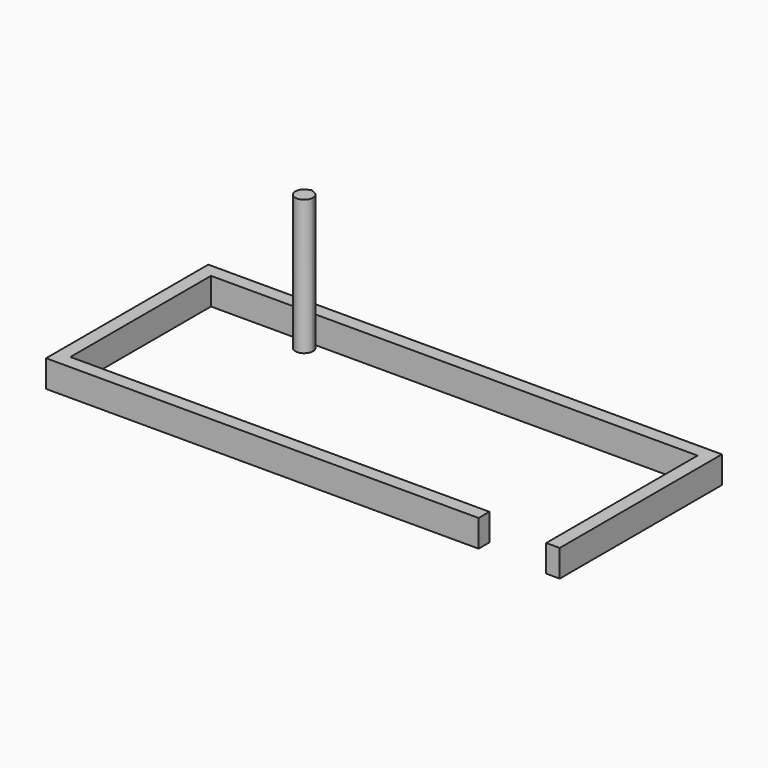
from build123d import *

# Parameters (mm, degrees)
F1_DEPTH = 200
F2_DEPTH = 1000


with BuildPart() as f1:
    # F0 (on Top) → F1 (new body)
    with BuildSketch(Plane.XY):
        Polygon((-1947.234035, -703.577162), (-1947.234035, 596.422838), (-1206.385482, 596.422838), (-1196.203493, 596.422838), (1652.765965, 596.422838), (1652.765965, -803.577162), (1752.765965, -803.577162), (1752.765965, 696.422838), (-2047.234035, 696.422838), (-2047.234035, -803.577162), (1152.765965, -803.577162), (1152.765965, -703.577162), align=None)
    extrude(amount=F1_DEPTH)

    # F0 (on Top) → F2 (join)
    with BuildSketch(Plane.XY):
        with BuildLine():
            ThreePointArc((-1196.203493, 591.515212), (-1201.291592, 591.788733), (-1206.385482, 591.662857))
            ThreePointArc((-1206.385482, 591.662857), (-1246.704002, 479.388583), (-1137.234035, 526.795566))
            ThreePointArc((-1137.234035, 526.795566), (-1154.187259, 570.573499), (-1196.203493, 591.515212))
        make_face()
        with BuildLine():
            Line((-1196.203493, 596.422838), (-1206.385482, 596.422838))
            Line((-1206.385482, 596.422838), (-1206.385482, 591.662857))
            ThreePointArc((-1206.385482, 591.662857), (-1201.291592, 591.788733), (-1196.203493, 591.515212))
            Line((-1196.203493, 591.515212), (-1196.203493, 596.422838))
        make_face()
    extrude(amount=F2_DEPTH)


solid = f1.part
